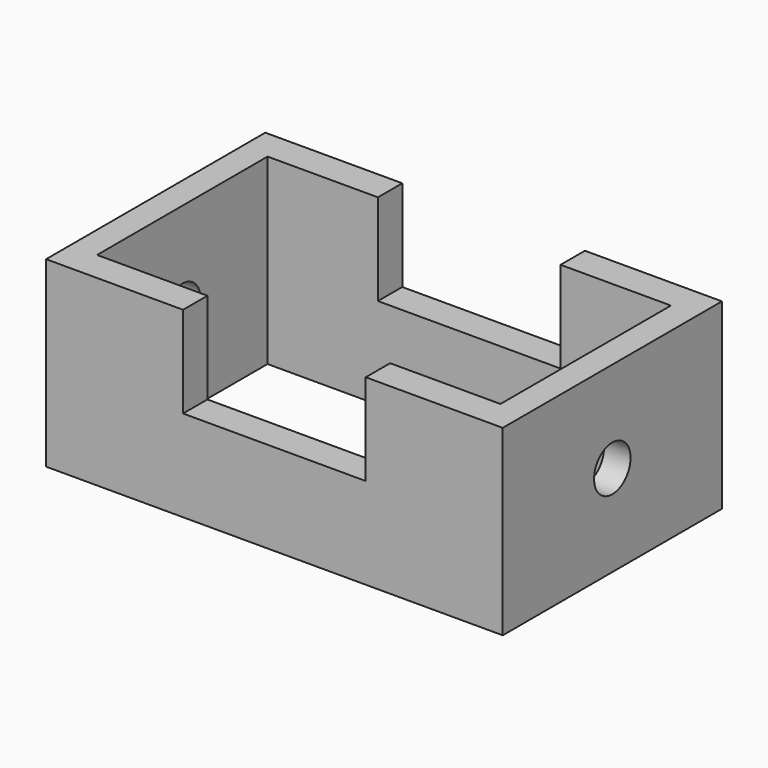
from build123d import *

# Parameters (mm, degrees)
F0_W     = 190.5
F0_H     = 114.3
F0_W_2   = 168.275
F0_H_2   = 88.9
F1_DEPTH = 76.2
F2_W     = 76.2
F2_H     = 76.2
F3_DEPTH = 190.5
F4_R     = 9.525
F5_DEPTH = 190.5


with BuildPart() as f1:
    # F0 (on Top) → F1 (new body)
    with BuildSketch(Plane.XY):
        Rectangle(F0_W, F0_H)
        Rectangle(F0_W_2, F0_H_2, mode=Mode.SUBTRACT)
    extrude(amount=F1_DEPTH)

    # F2 (on face) → F3 (cut, symmetric)
    with BuildSketch(Plane.XZ.offset(57.15)):
        with Locations((0, 76.2)):
            Rectangle(F2_W, F2_H)
    extrude(amount=F3_DEPTH, both=True, mode=Mode.SUBTRACT)

    # F4 (on face) → F5 (cut, symmetric)
    with BuildSketch(Plane.YZ.offset(95.25)):
        with Locations((0, 38.1)):
            Circle(F4_R)
    extrude(amount=F5_DEPTH, both=True, mode=Mode.SUBTRACT)


solid = f1.part
